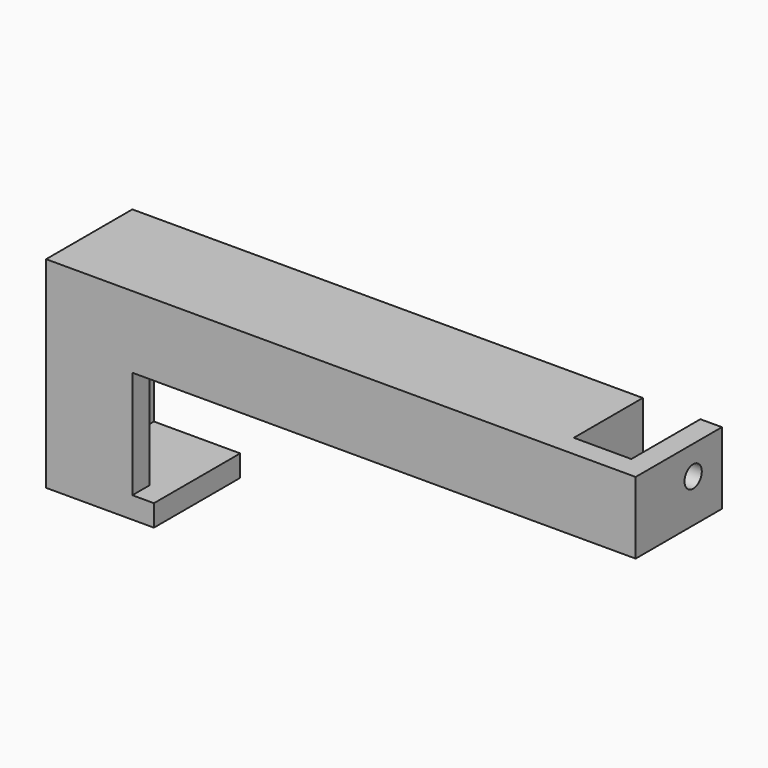
from build123d import *

# Parameters (mm, degrees)
PAD_DEPTH      = 12
PAD001_DEPTH   = 3
CYLINDER_R     = 1.5
CYLINDER_DEPTH = 3


with BuildPart() as part:
    # Sketch → Pad (new body)
    with BuildSketch(Plane.XZ):
        Polygon((82, 18), (82, 28), (79, 28), (79, 21), (71, 21), (71, 28), (0, 28), (0, 0), (15, 0), (15, 3), (3, 3), (3, 25), (68, 25), (68, 18), align=None)
    extrude(amount=PAD_DEPTH)

    # Sketch001 → Pad001 (join)
    with BuildSketch(Plane.XZ.offset(12)):
        Polygon((0, 28), (82, 28), (82, 18), (12, 18), (12, 3), (15, 3), (15, 0), (0, 0), align=None)
    extrude(amount=PAD001_DEPTH)

    # Cylinder → Cylinder (cut)
    with BuildSketch(Plane(origin=(79, -5, 24), x_dir=(0, 1, 0), z_dir=(1, 0, 0))):
        Circle(CYLINDER_R)
    extrude(amount=CYLINDER_DEPTH, mode=Mode.SUBTRACT)


solid = part.part
